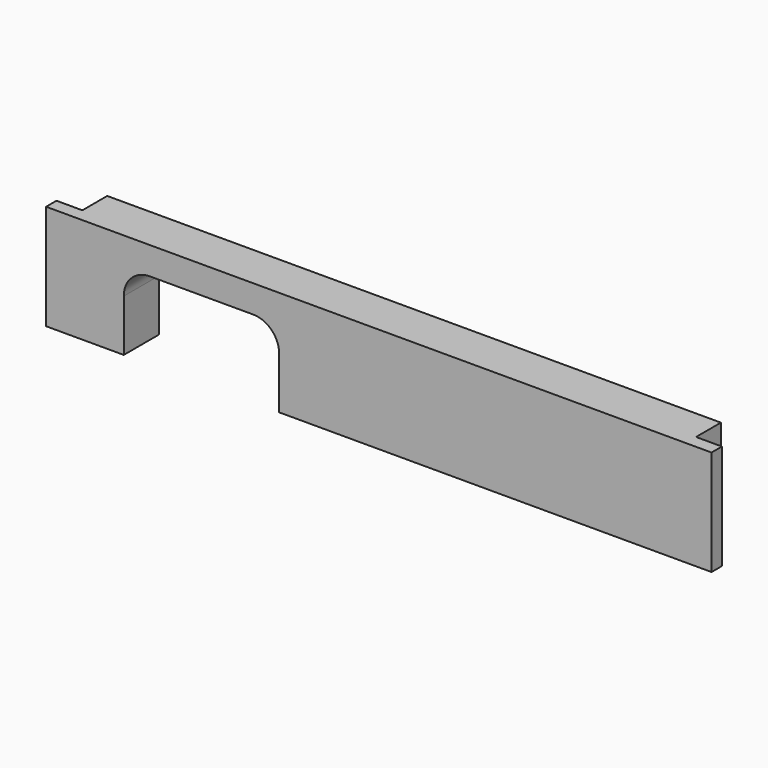
from build123d import *

# Parameters (mm, degrees)
PAD_DEPTH    = 20.32
POCKET_DEPTH = 21


with BuildPart() as part:
    # Sketch → Pad (new body)
    with BuildSketch(Plane.XY):
        Polygon((0, 0), (0, 2.51), (5, 2.51), (4.999966, 8.51), (123.5, 8.51), (123.5, 2.51), (128.5, 2.51), (128.5, 0), align=None)
    extrude(amount=PAD_DEPTH)

    # Sketch002 → Pocket (cut)
    with BuildSketch(Plane.XZ):
        with BuildLine():
            ThreePointArc((20, 15.000243), (16.464298, 13.535707), (14.999762, 10.000005))
            Line((14.999762, 10.000005), (14.999762, -25.27))
            Line((14.999762, -25.27), (45, -25.27))
            Line((45, -25.27), (45, 10.000238))
            ThreePointArc((45, 10.000238), (43.518366, 13.552956), (39.951518, 15.000243))
            Line((39.951518, 15.000243), (20, 15.000243))
        make_face()
    extrude(amount=-POCKET_DEPTH, mode=Mode.SUBTRACT)


solid = part.part
